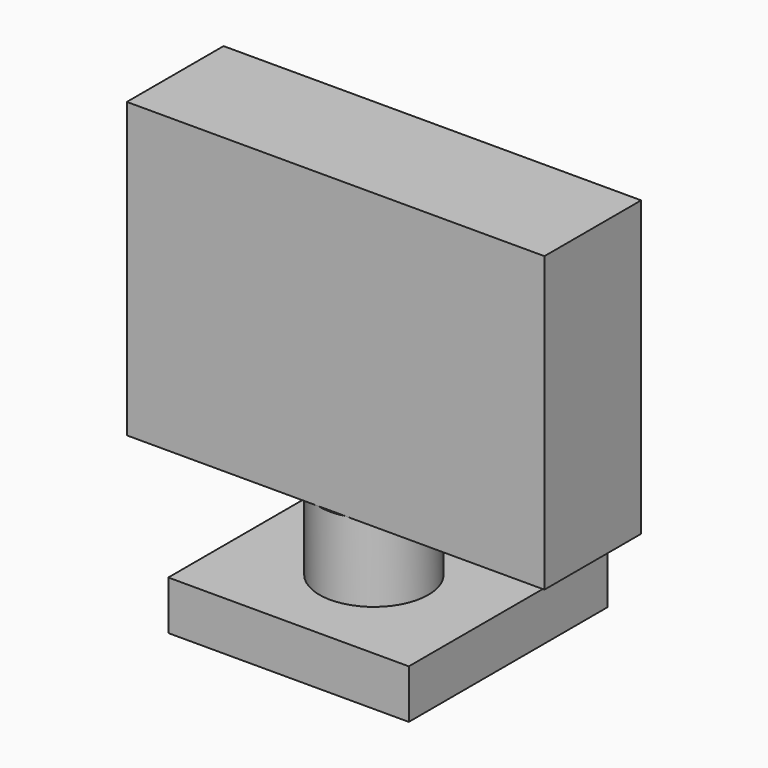
from build123d import *

# Parameters (mm, degrees)
F0_W     = 14.981428
F0_H     = 15.487057
F1_DEPTH = 3.048
F2_R     = 3.391828
F3_DEPTH = 7.874
F4_W     = 26.01181
F4_H     = 7.529734
F5_DEPTH = 18.288


with BuildPart() as f1:
    # F0 (on Top) → F1 (new body)
    with BuildSketch(Plane.XY):
        with Locations((-0.136139, 1.267898)):
            Rectangle(F0_W, F0_H)
    extrude(amount=F1_DEPTH)

    # F2 (on Top) → F3 (join)
    with BuildSketch(Plane.XY):
        Circle(F2_R)
    extrude(amount=F3_DEPTH)

    # F4 (on face) → F5 (join)
    with BuildSketch(Plane.XY.offset(7.874)):
        with Locations((0.244767, 0.48016)):
            Rectangle(F4_W, F4_H)
    extrude(amount=F5_DEPTH)


solid = f1.part
